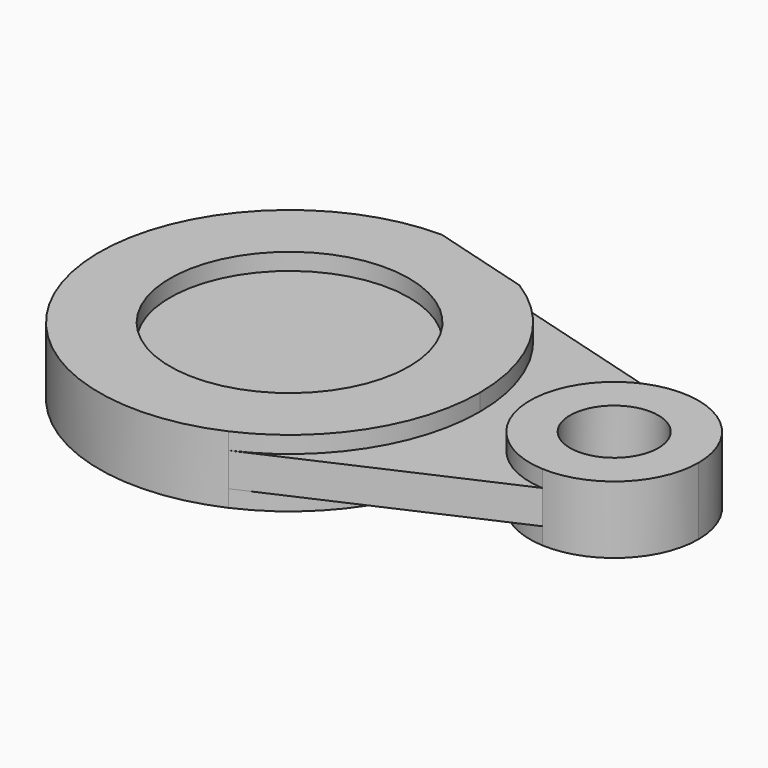
from build123d import *

# Parameters (mm, degrees)
F0_R     = 45.030395
F0_R_2   = 16.662653
F1_DEPTH = 12.7
F2_DEPTH = 6.35


with BuildPart() as f1:
    # F0 (on Top) → F1 (new body, symmetric)
    with BuildSketch(Plane.XY):
        with BuildLine():
            Line((38.032453, 60.787215), (0, 71.704623))
            ThreePointArc((0, 71.704623), (-70.118209, -14.999657), (29.3356, -65.429164))
            ThreePointArc((29.3356, -65.429164), (60.18742, -38.974702), (71.704623, 0))
            ThreePointArc((71.704623, 0), (62.72422, 34.745145), (38.032453, 60.787215))
        make_face()
        Circle(F0_R, mode=Mode.SUBTRACT)
        with BuildLine():
            ThreePointArc((121.077425, 36.948735), (86.432825, 7.666122), (116.387968, -26.398657))
            ThreePointArc((116.387968, -26.398657), (139.956608, -17.743016), (149.879041, 5.320944))
            ThreePointArc((149.879041, 5.320944), (141.599711, 26.709319), (121.077425, 36.948735))
        make_face()
        with Locations((118.11259, 5.320944)):
            Circle(F0_R_2, mode=Mode.SUBTRACT)
    extrude(amount=F1_DEPTH, both=True)


with BuildPart() as f2:
    # F0 (on Top) → F2 (new body, symmetric)
    with BuildSketch(Plane.XY):
        Circle(F0_R)
        with BuildLine():
            ThreePointArc((71.704623, 0), (60.18742, -38.974702), (29.3356, -65.429164))
            Line((29.3356, -65.429164), (116.387968, -26.398657))
            ThreePointArc((116.387968, -26.398657), (86.432825, 7.666122), (121.077425, 36.948735))
            Line((121.077425, 36.948735), (38.032453, 60.787215))
            ThreePointArc((38.032453, 60.787215), (62.72422, 34.745145), (71.704623, 0))
        make_face()
    extrude(amount=F2_DEPTH, both=True)


solid = Compound([f1.part, f2.part])
